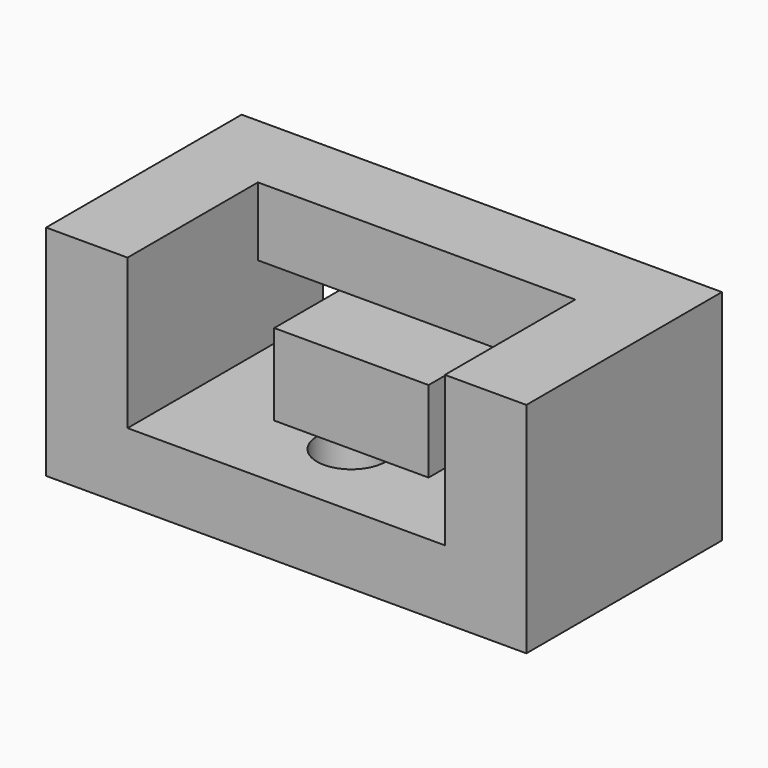
from build123d import *

# Parameters (mm, degrees)
F0_W     = 112
F0_H     = 51
F1_DEPTH = 57
F3_DEPTH = 38
F2_W     = 19
F2_H     = 19
F4_DEPTH = 57.001
F2_W_2   = 36
F5_DEPTH = 19
F6_R     = 8
F7_DEPTH = 16


with BuildPart() as f1:
    # F0 (on Front) → F1 (new body)
    with BuildSketch(Plane.XZ):
        with Locations((56, 25.5)):
            Rectangle(F0_W, F0_H)
    extrude(amount=-F1_DEPTH)

    # F2 (on face) → F3 (cut)
    with BuildSketch(Plane.XZ):
        Polygon((93, 51), (19, 51), (19, 35), (38, 35), (74, 35), (93, 35), align=None)
    extrude(amount=-F3_DEPTH, mode=Mode.SUBTRACT)

    # F2 (on face) → F4 (cut, through all)
    with BuildSketch(Plane.XZ):
        with Locations((83.5, 25.5)):
            Rectangle(F2_W, F2_H)
        with Locations((28.5, 25.5)):
            Rectangle(F2_W, F2_H)
    extrude(amount=-F4_DEPTH, mode=Mode.SUBTRACT)

    # F2 (on face) → F5 (cut)
    with BuildSketch(Plane.XZ):
        with Locations((56, 25.5)):
            Rectangle(F2_W_2, F2_H)
    extrude(amount=-F5_DEPTH, mode=Mode.SUBTRACT)

    # F6 (on face) → F7 (cut)
    with BuildSketch(Plane(origin=(0, 0, 0), x_dir=(1, 0, 0), z_dir=(0, 0, -1))):
        with Locations((56, -19)):
            Circle(F6_R)
    extrude(amount=-F7_DEPTH, mode=Mode.SUBTRACT)


solid = f1.part
